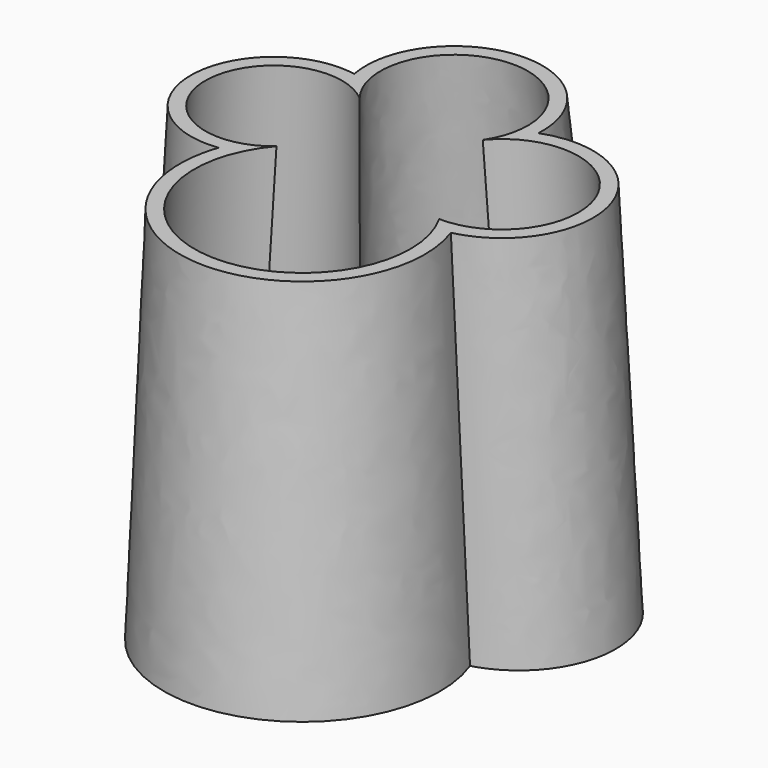
from build123d import *

# Parameters (mm, degrees)
F4_T = 2.5


with BuildPart() as f3:
    # F0 (on Top) → F3 section 0
    with BuildSketch(Plane.XY):
        with BuildLine():
            ThreePointArc((-18.3558277786, 34.8327122629), (-39.1625984133, 23.2699867338), (-18.3558277786, 11.7072612047))
            ThreePointArc((-18.3558277786, 11.7072612047), (-1.417407583, -21.0917952927), (18.0667564273, 10.2619212121))
            ThreePointArc((18.0667564273, 10.2619212121), (30.2936750236, 29.9294940688), (7.6603055932, 34.8327122629))
            ThreePointArc((7.6603055932, 34.8327122629), (-5.3477610927, 59.5306942128), (-18.3558277786, 34.8327122629))
        make_face()
    # F2 (on offset) → F3 section 1
    with BuildSketch(Plane.XY.offset(62.5)):
        with BuildLine():
            ThreePointArc((15.1760773733, 9.9728470668), (27.4588524892, 28.6088447239), (5.3477613255, 31.652957201))
            ThreePointArc((5.3477613255, 31.652957201), (-5.7672493569, 51.4092105187), (-15.1760783046, 30.785754323))
            ThreePointArc((-15.1760783046, 30.785754323), (-34.6005328998, 21.8246411532), (-15.1760783046, 12.8635279834))
            ThreePointArc((-15.1760783046, 12.8635279834), (-2.7815774225, -17.7883763464), (15.1760773733, 9.9728470668))
        make_face()
    loft()

    # F4
    f4_openings = [f3.faces().sort_by_distance(p)[0] for p in [
        (-2.330416, 16.834533, 62.5),
    ]]
    offset(amount=F4_T, openings=f4_openings, kind=Kind.INTERSECTION)


solid = f3.part
